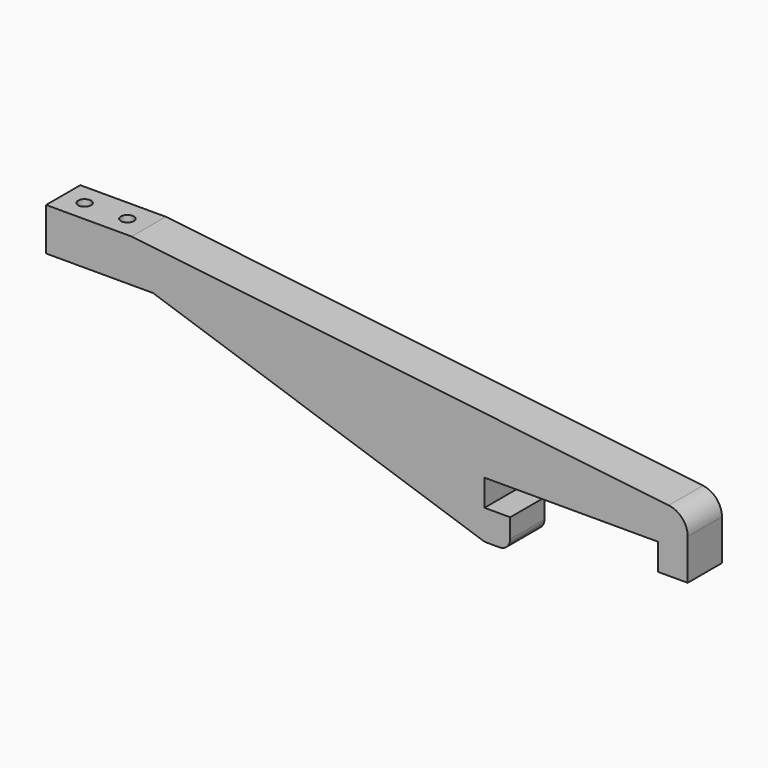
from build123d import *

# Parameters (mm, degrees)
F1_DEPTH = 10
F2_R     = 5
F3_R     = 2.5
F4_R     = 1.5
F5_DEPTH = 25


with BuildPart() as f1:
    # F0 (on Front) → F1 (new body)
    with BuildSketch(Plane.XZ):
        Polygon((-40.5, 0), (0, 0), (0, -6.2), (7, -6.2), (7, 7.8), (-123, 22.8), (-143, 22.8), (-143, 12.8), (-118, 12.8), (-40.5, -13.2), (-34.5, -13.2), (-34.5, -6.2), (-40.5, -6.2), align=None)
    extrude(amount=F1_DEPTH)

    # F2
    f2_edges = [f1.edges().sort_by_distance(p)[0] for p in [
        (7, -5, 7.8),
    ]]
    fillet(f2_edges, radius=F2_R)

    # F3
    f3_edges = [f1.edges().sort_by_distance(p)[0] for p in [
        (-34.5, -5, -13.2),
        (-40.5, -5, -13.2),
    ]]
    fillet(f3_edges, radius=F3_R)

    # F4 (on face) → F5 (cut)
    with BuildSketch(Plane.XY.offset(22.8)):
        with Locations((-128, -5)):
            Circle(F4_R)
        with Locations((-138, -5)):
            Circle(F4_R)
    extrude(amount=-F5_DEPTH, mode=Mode.SUBTRACT)


solid = f1.part
